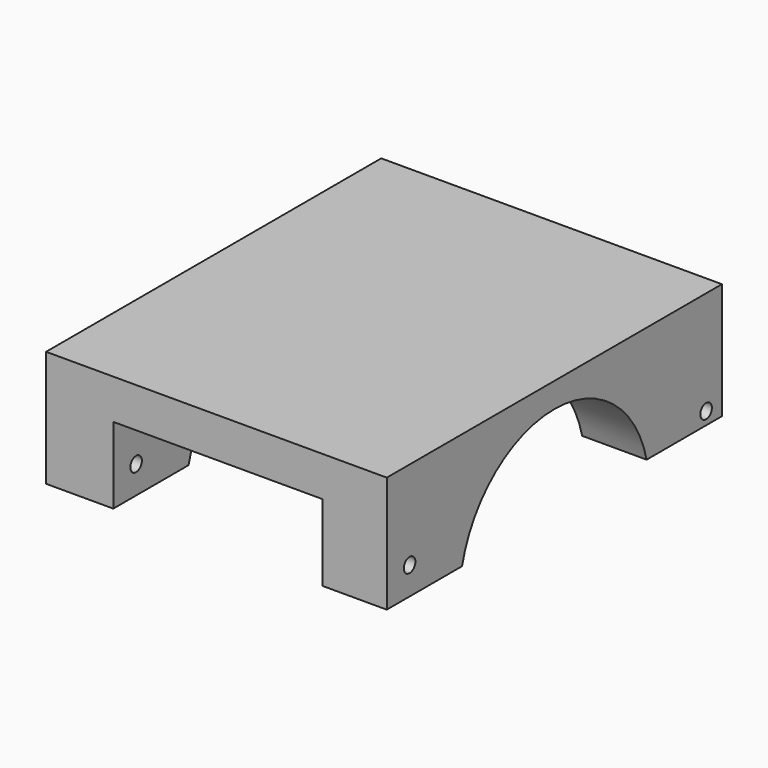
from build123d import *

# Parameters (mm, degrees)
F0_W     = 112.1267676353
F0_H     = 38.257420063
F1_DEPTH = 137.870118022
F2_W     = 68.7767341733
F2_H     = 25.1477137208
F3_DEPTH = 137.871118022
F4_R     = 2.38125
F5_DEPTH = 112.1277676353
F6_R     = 2.38125
F7_DEPTH = 112.1277676353
F9_DEPTH = 112.1277676353


with BuildPart() as f1:
    # F0 (on Front) → F1 (new body)
    with BuildSketch(Plane.XZ):
        with Locations((-1.3227313757, 19.1287100315)):
            Rectangle(F0_W, F0_H)
    extrude(amount=F1_DEPTH)

    # F2 (on face) → F3 (cut, through all)
    with BuildSketch(Plane.XZ.offset(137.870118022)):
        with Locations((-0.8782893419, 12.5738568604)):
            Rectangle(F2_W, F2_H)
    extrude(amount=-F3_DEPTH, mode=Mode.SUBTRACT)

    # F4 (on face) → F5 (cut, through all)
    with BuildSketch(Plane.YZ.offset(54.740652442)):
        with Locations((-128.4904330969, 9.1332495213)):
            Circle(F4_R)
    extrude(amount=-F5_DEPTH, mode=Mode.SUBTRACT)

    # F6 (on face) → F7 (cut, through all)
    with BuildSketch(Plane.YZ.offset(54.740652442)):
        with Locations((-6.499979645, 4.1290447116)):
            Circle(F6_R)
    extrude(amount=-F7_DEPTH, mode=Mode.SUBTRACT)

    # F8 (on face) → F9 (cut, through all)
    with BuildSketch(Plane.YZ.offset(54.740652442)):
        with BuildLine():
            Line((-106.8989974441, 0), (-30.9711205779, 0))
            ThreePointArc((-30.9711205779, 0), (-68.935059011, 30.0939472481), (-106.8989974441, 0))
        make_face()
    extrude(amount=-F9_DEPTH, mode=Mode.SUBTRACT)


solid = f1.part
